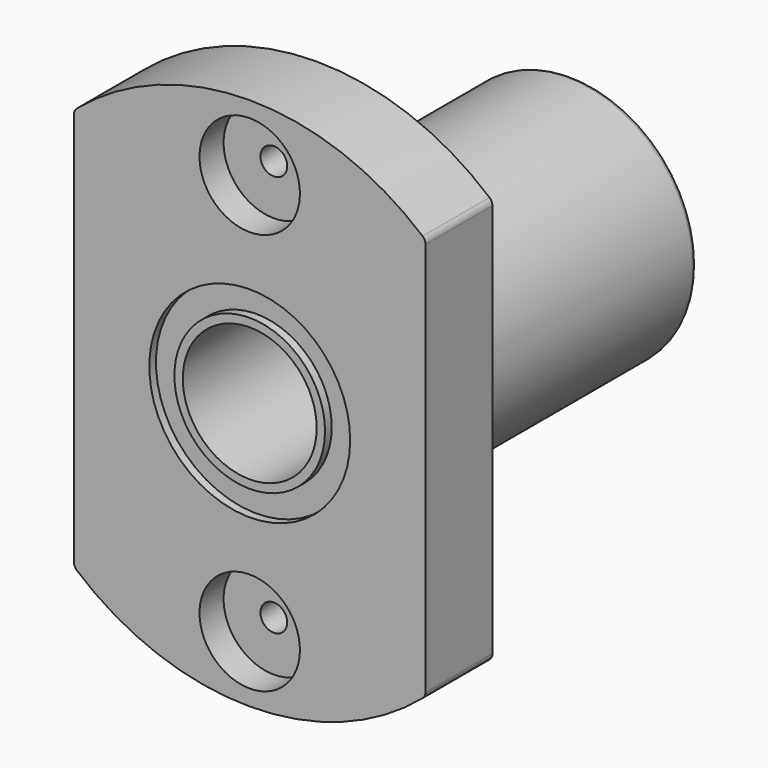
from build123d import *

# Parameters (mm, degrees)
SKETCH_R         = 6
PAD_DEPTH        = 5
HOLE_D           = 1.6
HOLE_CBORE_D     = 6
HOLE_CBORE_DEPTH = 1.8
SKETCH002_R      = 7.5
SKETCH002_R_2    = 6
PAD001_DEPTH     = 19
FILLET_R         = 0.5
FILLET001_R      = 0.3
SKETCH003_R      = 6
SKETCH003_R_2    = 4.5
PAD002_DEPTH     = 23
SKETCH004_R      = 4.5
SKETCH004_R_2    = 4
PAD003_DEPTH     = 24


with BuildPart() as body:
    # Sketch → Pad (new body)
    with BuildSketch(Plane.XZ):
        with BuildLine():
            ThreePointArc((10.5, 12), (0, 15.945219), (-10.5, 12))
            Line((-10.5, 12), (-10.5, -12))
            ThreePointArc((-10.5, -12), (0, -15.945219), (10.5, -12))
            Line((10.5, 12), (10.5, -12))
        make_face()
        Circle(SKETCH_R, mode=Mode.SUBTRACT)
    extrude(amount=-PAD_DEPTH)

    # Hole (through all)
    with Locations(Plane.XZ):
        with Locations((0, 12), (0, -12)):
            CounterBoreHole(HOLE_D / 2, HOLE_CBORE_D / 2, HOLE_CBORE_DEPTH)

    # Sketch002 (on Face5 of Hole) → Pad001 (join)
    with BuildSketch(Plane(origin=(0, 5, 0), x_dir=(1, 0, 0), z_dir=(0, 1, 0))):
        Circle(SKETCH002_R)
        Circle(SKETCH002_R_2, mode=Mode.SUBTRACT)
    extrude(amount=PAD001_DEPTH)

    # Fillet
    fillet_edges = [body.edges().sort_by_distance(p)[0] for p in [
        (10.5, 2.5, -12),
        (10.5, 2.5, 12),
        (-10.5, 2.5, 12),
        (-10.5, 2.5, -12),
    ]]
    fillet(fillet_edges, radius=FILLET_R)

    # Fillet001
    fillet001_edges = [body.edges().sort_by_distance(p)[0] for p in [
        (-7.5, 24, 0),
        (-6, 24, 0),
    ]]
    fillet(fillet001_edges, radius=FILLET001_R)


with BuildPart() as body001:
    # Sketch003 → Pad002 (new body)
    with BuildSketch(Plane.XZ):
        Circle(SKETCH003_R)
        Circle(SKETCH003_R_2, mode=Mode.SUBTRACT)
    extrude(amount=-PAD002_DEPTH)


with BuildPart() as body001_1:
    # Body001 placement: moved
    add(body001.part.moved(Location((0, 0.5, 0))))


with BuildPart() as body002:
    # Sketch004 → Pad003 (new body)
    with BuildSketch(Plane.XZ):
        Circle(SKETCH004_R)
        Circle(SKETCH004_R_2, mode=Mode.SUBTRACT)
    extrude(amount=-PAD003_DEPTH)


solid = Compound([body.part, body001_1.part, body002.part])
